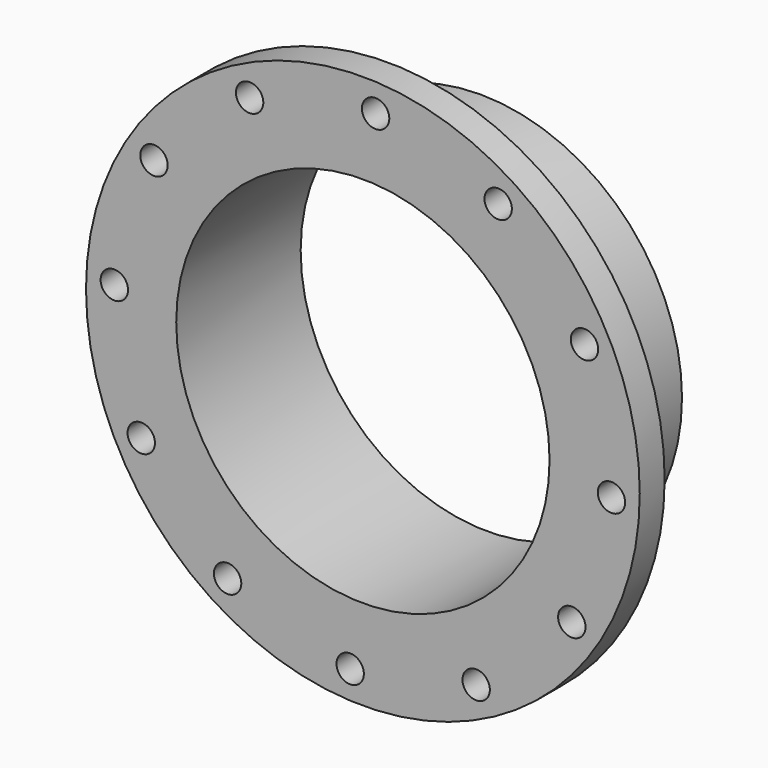
from build123d import *

# Parameters (mm, degrees)
F2_R     = 5
F3_R     = 11
F4_DEPTH = 30


with BuildPart() as f1:
    # F0 (on Top) → F1 (revolve)
    with BuildSketch(Plane.XY):
        Polygon((-222.5, 0), (-150, 0), (-150, 125), (-161.95, 118.100664), (-161.95, 78.100664), (-171.31308, 25), (-222.5, 25), align=None)
    revolve(axis=Axis((0, 128.547966, 0), (0, 1, 0)))

    # F2
    f2_edges = [f1.edges().sort_by_distance(p)[0] for p in [
        (171.31308, 25, 0),
        (161.95, 78.100664, 0),
    ]]
    fillet(f2_edges, radius=F2_R)

    # F3 (on face) → F4 (cut)
    with BuildSketch(Plane(origin=(0, 25, 0), x_dir=(-1, 0, 0), z_dir=(0, 1, 0))):
        with Locations((108.713881, -167.872845)):
            Circle(F3_R)
        with Locations((178.085405, -91.025207)):
            Circle(F3_R)
        with Locations((199.739089, 10.212561)):
            Circle(F3_R)
        with Locations((167.872845, 108.713881)):
            Circle(F3_R)
        with Locations((91.025207, 178.085405)):
            Circle(F3_R)
        with Locations((-10.212561, 199.739089)):
            Circle(F3_R)
        with Locations((-108.713881, 167.872845)):
            Circle(F3_R)
        with Locations((-178.085405, 91.025207)):
            Circle(F3_R)
        with Locations((-199.739089, -10.212561)):
            Circle(F3_R)
        with Locations((-167.872845, -108.713881)):
            Circle(F3_R)
        with Locations((-91.025207, -178.085405)):
            Circle(F3_R)
        with Locations((10.212561, -199.739089)):
            Circle(F3_R)
    extrude(amount=-F4_DEPTH, mode=Mode.SUBTRACT)


solid = f1.part
